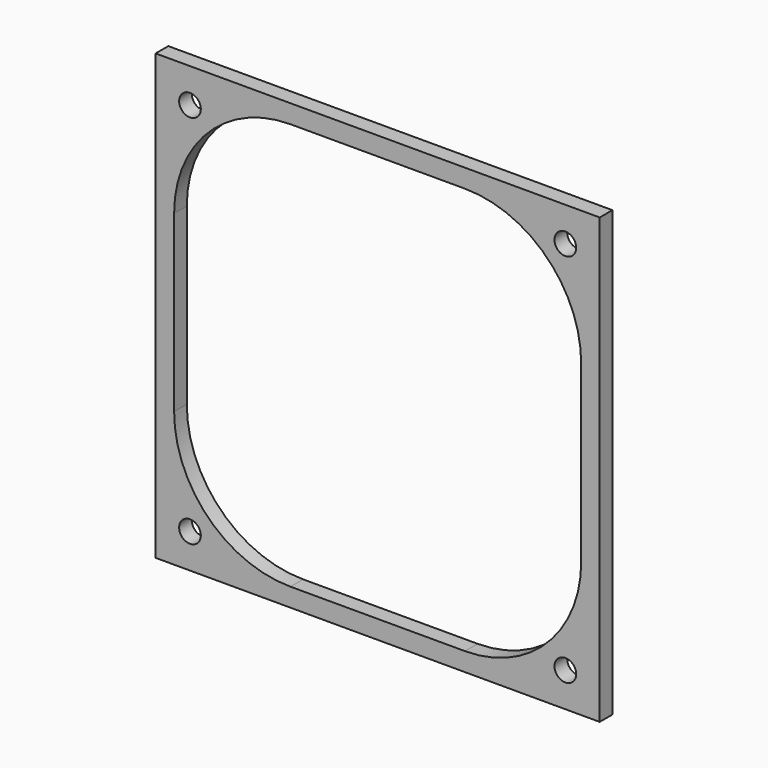
from build123d import *

# Parameters (mm, degrees)
F0_W     = 84
F0_H     = 84
F0_W_2   = 79
F0_H_2   = 79
F0_R     = 2.05
F1_DEPTH = 3


with BuildPart() as f1:
    # F0 (on Front) → F1 (new body)
    with BuildSketch(Plane.XZ):
        Rectangle(F0_W, F0_H)
        Rectangle(F0_W_2, F0_H_2, mode=Mode.SUBTRACT)
        Rectangle(F0_W_2, F0_H_2)
        with Locations((-35.5, -35.5)):
            Circle(F0_R, mode=Mode.SUBTRACT)
        with Locations((35.5, -35.5)):
            Circle(F0_R, mode=Mode.SUBTRACT)
        with Locations((-35.5, 35.5)):
            Circle(F0_R, mode=Mode.SUBTRACT)
        with BuildLine():
            Line((-16.5, 38.5), (16.5, 38.5))
            ThreePointArc((16.5, 38.5), (32.0563491861, 32.0563491861), (38.5, 16.5))
            Line((38.5, 16.5), (38.5, -16.5))
            ThreePointArc((38.5, -16.5), (32.0563491861, -32.0563491861), (16.5, -38.5))
            Line((16.5, -38.5), (-16.5, -38.5))
            ThreePointArc((-16.5, -38.5), (-32.0563491861, -32.0563491861), (-38.5, -16.5))
            Line((-38.5, -16.5), (-38.5, 16.5))
            ThreePointArc((-38.5, 16.5), (-32.0563491861, 32.0563491861), (-16.5, 38.5))
        make_face(mode=Mode.SUBTRACT)
        with Locations((35.5, 35.5)):
            Circle(F0_R, mode=Mode.SUBTRACT)
    extrude(amount=F1_DEPTH)


solid = f1.part
